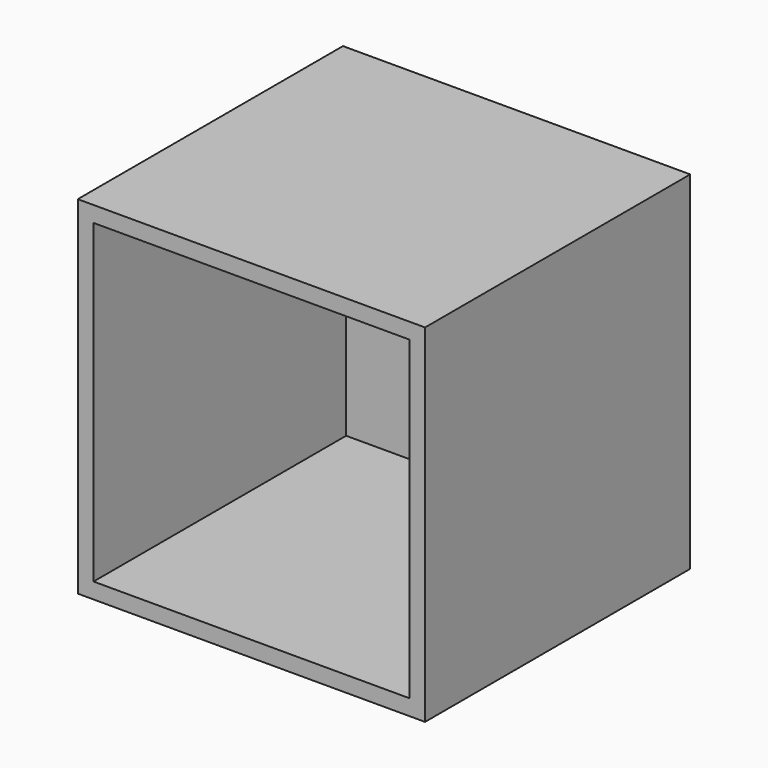
from build123d import *

# Parameters (mm, degrees)
F0_W     = 3000
F0_H     = 3000
F1_DEPTH = 1500
F2_T     = 150


with BuildPart() as f1:
    # F0 (on Front) → F1 (new body, symmetric)
    with BuildSketch(Plane.XZ):
        with Locations((0, 1650)):
            Rectangle(F0_W, F0_H)
    extrude(amount=F1_DEPTH, both=True)

    # F2
    f2_openings = [f1.faces().sort_by_distance(p)[0] for p in [
        (0, -1500, 1650),
    ]]
    offset(amount=F2_T, openings=f2_openings, kind=Kind.INTERSECTION)


solid = f1.part
